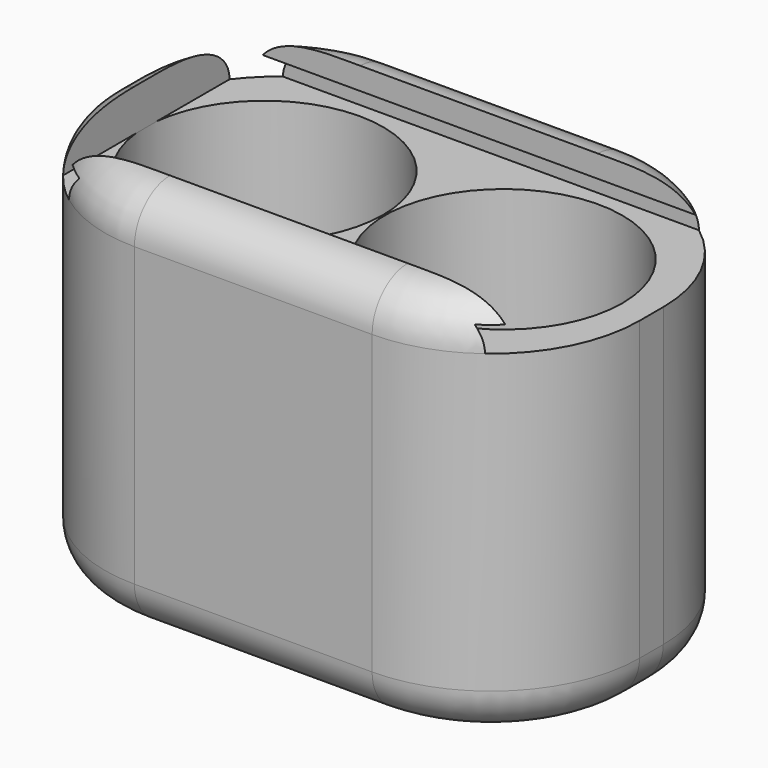
from build123d import *

# Parameters (mm, degrees)
F1_DEPTH  = 26
F2_R      = 3
F3_R      = 8
F4_DEPTH  = 23
F6_R      = 8
F7_DEPTH  = 3
F8_R      = 3
F11_DEPTH = 35


with BuildPart() as f1:
    # F0 (on Top) → F1 (new body)
    with BuildSketch(Plane.XY):
        with BuildLine():
            Line((-8, -11), (8, -11))
            ThreePointArc((8, -11), (15.0710678119, -8.0710678119), (18, -1))
            Line((18, -1), (18, 1))
            ThreePointArc((18, 1), (15.0710678119, 8.0710678119), (8, 11))
            Line((8, 11), (-8, 11))
            ThreePointArc((-8, 11), (-15.0710678119, 8.0710678119), (-18, 1))
            Line((-18, 1), (-18, -1))
            ThreePointArc((-18, -1), (-15.0710678119, -8.0710678119), (-8, -11))
        make_face()
    extrude(amount=F1_DEPTH)

    # F2
    f2_edges = [f1.edges().sort_by_distance(p)[0] for p in [
        (0, -11, 0),
        (15.071068, -8.071068, 0),
        (18, 0, 0),
        (15.071068, 8.071068, 0),
        (0, 11, 0),
        (-15.071068, 8.071068, 0),
        (-18, 0, 0),
        (-15.071068, -8.071068, 0),
    ]]
    fillet(f2_edges, radius=F2_R)

    # F3 (on face) → F4 (cut)
    with BuildSketch(Plane.XY.offset(26)):
        with Locations((8.05, 0)):
            Circle(F3_R)
        with Locations((-8.05, 0)):
            Circle(F3_R)
    extrude(amount=-F4_DEPTH, mode=Mode.SUBTRACT)

    # F6 (on offset) → F7 (join, through all)
    with BuildSketch(Plane.XY.offset(23)):
        with Locations((-8.05, 0)):
            Circle(F6_R)
        with Locations((8.05, 0)):
            Circle(F6_R)
    extrude(amount=F7_DEPTH)

    # F8
    f8_edges = [f1.edges().sort_by_distance(p)[0] for p in [
        (0, -11, 26),
        (15.071068, -8.071068, 26),
        (18, 0, 26),
        (15.071068, 8.071068, 26),
        (0, 11, 26),
        (-15.071068, 8.071068, 26),
        (-18, 0, 26),
        (-15.071068, -8.071068, 26),
    ]]
    fillet(f8_edges, radius=F8_R)

    # F10 (on offset) → F11 (cut)
    with BuildSketch(Plane.YZ.offset(19)):
        Polygon((-1, 26), (-8, 26), (-8, 24.5), (-9, 24.5), (-9, 23), (-8, 23), (8, 23), (9, 23), (9, 24.5), (8, 24.5), (8, 26), (1, 26), align=None)
    extrude(amount=-F11_DEPTH, mode=Mode.SUBTRACT)


solid = f1.part
